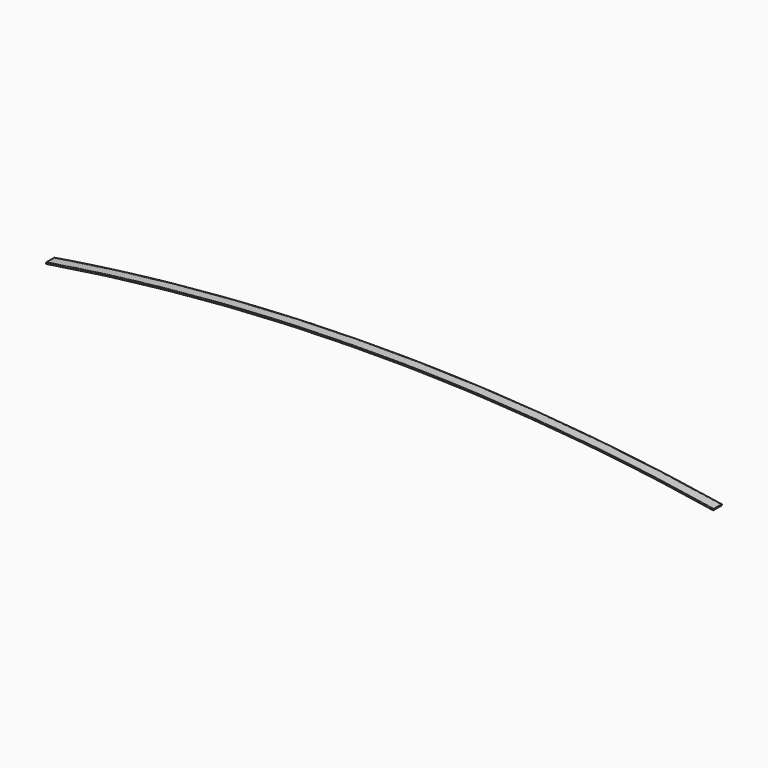
from build123d import *


with BuildPart() as f2:
    # F2: sweep along a path in F0
    with BuildLine(Plane.XZ) as f2_path:
        ThreePointArc((1240, 40), (620, 90), (0, 40))
    # F1 (on Right) → F2 (sweep)
    with BuildSketch(Plane.YZ):
        with BuildLine():
            ThreePointArc((-7.284486169, 41), (-6.9915929502, 40.2928932188), (-6.284486169, 40))
            Line((-6.284486169, 40), (11.715513831, 40))
            ThreePointArc((11.715513831, 40), (12.4226206122, 40.2928932188), (12.715513831, 41))
            Line((12.715513831, 41), (12.715513831, 42))
            ThreePointArc((12.715513831, 42), (12.4226206122, 42.7071067812), (11.715513831, 43))
            Line((11.715513831, 43), (-6.284486169, 43))
            ThreePointArc((-6.284486169, 43), (-6.9915929502, 42.7071067812), (-7.284486169, 42))
            Line((-7.284486169, 42), (-7.284486169, 41))
        make_face()
    sweep(path=f2_path.line)


solid = f2.part
